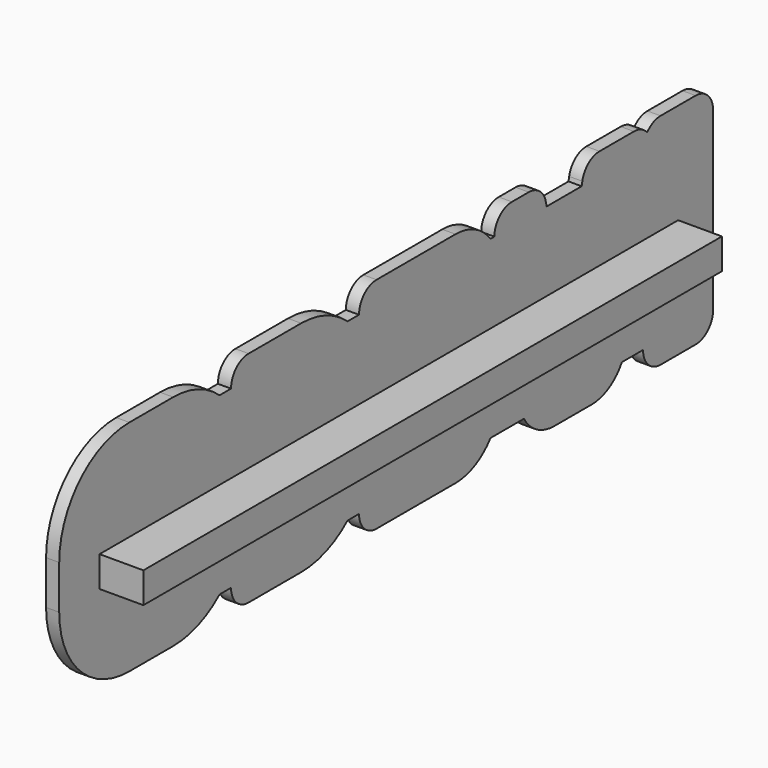
from build123d import *

# Parameters (mm, degrees)
BOX531_W         = 0.2
BOX531_H         = 39
BOX531_DEPTH     = 10
BOX459_W         = 0.8
BOX459_H         = 4
BOX459_DEPTH     = 10
FILLET340_R      = 1
BOX458_W         = 1
BOX458_H         = 3
BOX458_DEPTH     = 9
FILLET339_R      = 0.5
BOX490_W         = 0.8
BOX490_H         = 30
BOX490_DEPTH     = 8
BOX466_W         = 1
BOX466_H         = 5
BOX466_DEPTH     = 2
BOX462_W         = 1
BOX462_H         = 7
BOX462_DEPTH     = 2
BOX464_W         = 1
BOX464_H         = 3
BOX464_DEPTH     = 9
BOX460_W         = 1
BOX460_H         = 7
BOX460_DEPTH     = 2
FILLET_R         = 0.5
FILLET409_R      = 2
FILLET410_R      = 0.75
BOX465_W         = 0.8
BOX465_H         = 4
BOX465_DEPTH     = 10
BOX467_W         = 0.8
BOX467_H         = 6
BOX467_DEPTH     = 3
BOX463_W         = 0.8
BOX463_H         = 8
BOX463_DEPTH     = 3.5
BOX461_W         = 0.8
BOX461_H         = 8
BOX461_DEPTH     = 3.5
FILLET365_R      = 1
FILLET366_R      = 2.5
BOX470_W         = 1
BOX470_H         = 7
BOX470_DEPTH     = 2
BOX471_W         = 1
BOX471_H         = 3
BOX471_DEPTH     = 9
BOX468_W         = 1
BOX468_H         = 7
BOX468_DEPTH     = 2
FILLET406_R      = 0.5
FILLET407_R      = 3.5
FILLET408_R      = 1.5
BOX473_W         = 0.8
BOX473_H         = 8
BOX473_DEPTH     = 3.5
BOX474_W         = 0.8
BOX474_H         = 4
BOX474_DEPTH     = 10
BOX472_W         = 0.8
BOX472_H         = 8
BOX472_DEPTH     = 3.5
FILLET369_R      = 4
FILLET370_R      = 1
FILLET371_R      = 0.3
BOX476_W         = 1
BOX476_H         = 6
BOX476_DEPTH     = 2
BOX477_W         = 1
BOX477_H         = 3
BOX477_DEPTH     = 9
BOX481_W         = 1
BOX481_H         = 3
BOX481_DEPTH     = 9
BOX475_W         = 1
BOX475_H         = 6
BOX475_DEPTH     = 2
FILLET403_R      = 3.5
FILLET404_R      = 1
BOX479_W         = 0.8
BOX479_H         = 7
BOX479_DEPTH     = 3
BOX480_W         = 0.8
BOX480_H         = 4
BOX480_DEPTH     = 10
BOX482_W         = 0.8
BOX482_H         = 4
BOX482_DEPTH     = 10
BOX478_W         = 0.8
BOX478_H         = 7
BOX478_DEPTH     = 3
FILLET405_R      = 4
BOX489_W         = 1
BOX489_H         = 10
BOX489_DEPTH     = 0.01
BOX486_W         = 0.8
BOX486_H         = 6
BOX486_DEPTH     = 10
CHAMFER008_SIZE2 = 2
CHAMFER008_SIZE  = 9.99
CHAMFER009_SIZE2 = 9.99
CHAMFER009_SIZE  = 2
BOX491_W         = 0.8
BOX491_H         = 5
BOX491_DEPTH     = 10
CHAMFER010_SIZE2 = 2
CHAMFER010_SIZE  = 9.99
CHAMFER011_SIZE2 = 9.99
CHAMFER011_SIZE  = 2
FILLET367_R      = 1
FILLET368_R      = 2
BOX488_W         = 1
BOX488_H         = 10
BOX488_DEPTH     = 0.01
BOX485_W         = 1
BOX485_H         = 4
BOX485_DEPTH     = 9
CHAMFER002_SIZE2 = 2
CHAMFER002_SIZE  = 8.99
CHAMFER003_SIZE2 = 8.99
CHAMFER003_SIZE  = 2
BOX483_W         = 1
BOX483_H         = 5
BOX483_DEPTH     = 9
CHAMFER_SIZE2    = 2
CHAMFER_SIZE     = 8.99
CHAMFER001_SIZE2 = 8.99
CHAMFER001_SIZE  = 2
FILLET356_R      = 0.5
FILLET357_R      = 1.25
BOX495_W         = 2
BOX495_H         = 33
BOX495_DEPTH     = 1.4


with BuildPart() as cube756:
    # Box531 → Box531 (new body)
    with BuildSketch(Plane(origin=(-0.2, 64, 10.5), x_dir=(1, 0, 0), z_dir=(0, 0, 1))):
        with Locations((0.1, 19.5)):
            Rectangle(BOX531_W, BOX531_H)
    extrude(amount=BOX531_DEPTH)


with BuildPart() as fillet340:
    # Box459 → Box459 (new body)
    with BuildSketch(Plane(origin=(-0.9, 98.5, 11.5), x_dir=(1, 0, 0), z_dir=(0, 0, 1))):
        with Locations((0.4, 2)):
            Rectangle(BOX459_W, BOX459_H)
    extrude(amount=BOX459_DEPTH)

    # Fillet340
    fillet340_edges = [fillet340.edges().sort_by_distance(p)[0] for p in [
        (-0.5, 98.5, 11.5),
        (-0.5, 98.5, 21.5),
        (-0.5, 102.5, 11.5),
        (-0.5, 102.5, 21.5),
    ]]
    fillet(fillet340_edges, radius=FILLET340_R)


with BuildPart() as fillet340_1:
    # Fillet340 placement: moved
    add(fillet340.part.moved(Location((0.1, 0, 0))))


with BuildPart() as fusion261:
    # Box458 → Box458 (new body)
    with BuildSketch(Plane(origin=(-1, 99, 12), x_dir=(1, 0, 0), z_dir=(0, 0, 1))):
        with Locations((0.5, 1.5)):
            Rectangle(BOX458_W, BOX458_H)
    extrude(amount=BOX458_DEPTH)

    # Fillet339
    fillet339_edges = [fusion261.edges().sort_by_distance(p)[0] for p in [
        (-0.5, 99, 12),
        (-0.5, 99, 21),
        (-0.5, 102, 12),
        (-0.5, 102, 21),
    ]]
    fillet(fillet339_edges, radius=FILLET339_R)

    # Fusion261: union Fillet340
    add(fillet340_1.part)


with BuildPart() as fusion261_1:
    # Fusion261 placement: moved
    add(fusion261.part.moved(Location((0, -1, 0))))


with BuildPart() as cube715:
    # Box490 → Box490 (new body)
    with BuildSketch(Plane(origin=(-0.8, 68, 12.5), x_dir=(1, 0, 0), z_dir=(0, 0, 1))):
        with Locations((0.4, 15)):
            Rectangle(BOX490_W, BOX490_H)
    extrude(amount=BOX490_DEPTH)


with BuildPart() as cube691:
    # Box466 → Box466 (new body)
    with BuildSketch(Plane(origin=(-1, 82.5, 15.5), x_dir=(1, 0, 0), z_dir=(0, 0, 1))):
        with Locations((0.5, 2.5)):
            Rectangle(BOX466_W, BOX466_H)
    extrude(amount=BOX466_DEPTH)


with BuildPart() as cube687:
    # Box462 → Box462 (new body)
    with BuildSketch(Plane(origin=(-1, 81.5, 19), x_dir=(1, 0, 0), z_dir=(0, 0, 1))):
        with Locations((0.5, 3.5)):
            Rectangle(BOX462_W, BOX462_H)
    extrude(amount=BOX462_DEPTH)


with BuildPart() as cube689:
    # Box464 → Box464 (new body)
    with BuildSketch(Plane(origin=(-1, 85.5, 12), x_dir=(1, 0, 0), z_dir=(0, 0, 1))):
        with Locations((0.5, 1.5)):
            Rectangle(BOX464_W, BOX464_H)
    extrude(amount=BOX464_DEPTH)


with BuildPart() as fillet410:
    # Box460 → Box460 (new body)
    with BuildSketch(Plane(origin=(-1, 81.5, 12), x_dir=(1, 0, 0), z_dir=(0, 0, 1))):
        with Locations((0.5, 3.5)):
            Rectangle(BOX460_W, BOX460_H)
    extrude(amount=BOX460_DEPTH)

    # Fusion257: union Cube691, Cube687, Cube689
    add(cube691.part)
    add(cube687.part)
    add(cube689.part)

    # Fillet
    fillet_edges = [fillet410.edges().sort_by_distance(p)[0] for p in [
        (-0.5, 82.5, 15.5),
        (-0.5, 82.5, 17.5),
        (-0.5, 81.5, 14),
        (-0.5, 81.5, 19),
        (-0.5, 81.5, 12),
        (-0.5, 81.5, 21),
    ]]
    fillet(fillet_edges, radius=FILLET_R)

    # Fillet409
    fillet409_edges = [fillet410.edges().sort_by_distance(p)[0] for p in [
        (-0.5, 88.5, 21),
        (-0.5, 88.5, 12),
    ]]
    fillet(fillet409_edges, radius=FILLET409_R)

    # Fillet410
    fillet410_edges = [fillet410.edges().sort_by_distance(p)[0] for p in [
        (-0.5, 85.5, 19),
        (-0.5, 85.5, 14),
    ]]
    fillet(fillet410_edges, radius=FILLET410_R)


with BuildPart() as cube690:
    # Box465 → Box465 (new body)
    with BuildSketch(Plane(origin=(-0.9, 85, 11.5), x_dir=(1, 0, 0), z_dir=(0, 0, 1))):
        with Locations((0.4, 2)):
            Rectangle(BOX465_W, BOX465_H)
    extrude(amount=BOX465_DEPTH)


with BuildPart() as cube692:
    # Box467 → Box467 (new body)
    with BuildSketch(Plane(origin=(-0.9, 82.5, 15), x_dir=(1, 0, 0), z_dir=(0, 0, 1))):
        with Locations((0.4, 3)):
            Rectangle(BOX467_W, BOX467_H)
    extrude(amount=BOX467_DEPTH)


with BuildPart() as cube688:
    # Box463 → Box463 (new body)
    with BuildSketch(Plane(origin=(-0.9, 81, 18), x_dir=(1, 0, 0), z_dir=(0, 0, 1))):
        with Locations((0.4, 4)):
            Rectangle(BOX463_W, BOX463_H)
    extrude(amount=BOX463_DEPTH)


with BuildPart() as e:
    # Box461 → Box461 (new body)
    with BuildSketch(Plane(origin=(-0.9, 81, 11.5), x_dir=(1, 0, 0), z_dir=(0, 0, 1))):
        with Locations((0.4, 4)):
            Rectangle(BOX461_W, BOX461_H)
    extrude(amount=BOX461_DEPTH)

    # Fusion: union Cube690, Cube692, Cube688
    add(cube690.part)
    add(cube692.part)
    add(cube688.part)

    # Fillet365
    fillet365_edges = [e.edges().sort_by_distance(p)[0] for p in [
        (-0.5, 81, 21.5),
        (-0.5, 81, 11.5),
    ]]
    fillet(fillet365_edges, radius=FILLET365_R)

    # Fillet366
    fillet366_edges = [e.edges().sort_by_distance(p)[0] for p in [
        (-0.5, 89, 21.5),
        (-0.5, 89, 11.5),
    ]]
    fillet(fillet366_edges, radius=FILLET366_R)


with BuildPart() as e_1:
    # Fillet366 placement: moved
    add(e.part.moved(Location((0.1, 0, 0))))

    # Fusion297: union Fillet410
    add(fillet410.part)


with BuildPart() as e_2:
    # Fusion297 placement: moved
    add(e_1.part.moved(Location((0, 0.3, 0))))


with BuildPart() as cube695:
    # Box470 → Box470 (new body)
    with BuildSketch(Plane(origin=(-1, 74.5, 19), x_dir=(1, 0, 0), z_dir=(0, 0, 1))):
        with Locations((0.5, 3.5)):
            Rectangle(BOX470_W, BOX470_H)
    extrude(amount=BOX470_DEPTH)


with BuildPart() as cube696:
    # Box471 → Box471 (new body)
    with BuildSketch(Plane(origin=(-1, 78.5, 12), x_dir=(1, 0, 0), z_dir=(0, 0, 1))):
        with Locations((0.5, 1.5)):
            Rectangle(BOX471_W, BOX471_H)
    extrude(amount=BOX471_DEPTH)


with BuildPart() as fillet408:
    # Box468 → Box468 (new body)
    with BuildSketch(Plane(origin=(-1, 74.5, 12), x_dir=(1, 0, 0), z_dir=(0, 0, 1))):
        with Locations((0.5, 3.5)):
            Rectangle(BOX468_W, BOX468_H)
    extrude(amount=BOX468_DEPTH)

    # Fusion258: union Cube695, Cube696
    add(cube695.part)
    add(cube696.part)

    # Fillet406
    fillet406_edges = [fillet408.edges().sort_by_distance(p)[0] for p in [
        (-0.5, 74.5, 19),
        (-0.5, 74.5, 21),
        (-0.5, 74.5, 14),
        (-0.5, 74.5, 12),
    ]]
    fillet(fillet406_edges, radius=FILLET406_R)

    # Fillet407
    fillet407_edges = [fillet408.edges().sort_by_distance(p)[0] for p in [
        (-0.5, 81.5, 21),
        (-0.5, 81.5, 12),
    ]]
    fillet(fillet407_edges, radius=FILLET407_R)

    # Fillet408
    fillet408_edges = [fillet408.edges().sort_by_distance(p)[0] for p in [
        (-0.5, 78.5, 19),
        (-0.5, 78.5, 14),
    ]]
    fillet(fillet408_edges, radius=FILLET408_R)


with BuildPart() as cube698:
    # Box473 → Box473 (new body)
    with BuildSketch(Plane(origin=(-0.9, 74, 18), x_dir=(1, 0, 0), z_dir=(0, 0, 1))):
        with Locations((0.4, 4)):
            Rectangle(BOX473_W, BOX473_H)
    extrude(amount=BOX473_DEPTH)


with BuildPart() as cube699:
    # Box474 → Box474 (new body)
    with BuildSketch(Plane(origin=(-0.9, 78, 11.5), x_dir=(1, 0, 0), z_dir=(0, 0, 1))):
        with Locations((0.4, 2)):
            Rectangle(BOX474_W, BOX474_H)
    extrude(amount=BOX474_DEPTH)


with BuildPart() as c:
    # Box472 → Box472 (new body)
    with BuildSketch(Plane(origin=(-0.9, 74, 11.5), x_dir=(1, 0, 0), z_dir=(0, 0, 1))):
        with Locations((0.4, 4)):
            Rectangle(BOX472_W, BOX472_H)
    extrude(amount=BOX472_DEPTH)

    # Fusion259: union Cube698, Cube699
    add(cube698.part)
    add(cube699.part)


with BuildPart() as c_1:
    # Fusion259 placement: moved
    add(c.part.moved(Location((0.1, 0, 0))))

    # Fillet369
    fillet369_edges = [c_1.edges().sort_by_distance(p)[0] for p in [
        (-0.4, 82, 21.5),
        (-0.4, 82, 11.5),
    ]]
    fillet(fillet369_edges, radius=FILLET369_R)

    # Fillet370
    fillet370_edges = [c_1.edges().sort_by_distance(p)[0] for p in [
        (-0.4, 74, 11.5),
        (-0.4, 74, 15),
        (-0.4, 74, 21.5),
        (-0.4, 74, 18),
    ]]
    fillet(fillet370_edges, radius=FILLET370_R)

    # Fillet371
    fillet371_edges = [c_1.edges().sort_by_distance(p)[0] for p in [
        (-0.4, 78, 15),
        (-0.4, 78, 18),
    ]]
    fillet(fillet371_edges, radius=FILLET371_R)

    # Fusion295: union Fillet408
    add(fillet408.part)


with BuildPart() as cube701:
    # Box476 → Box476 (new body)
    with BuildSketch(Plane(origin=(-1, 67.5, 19), x_dir=(1, 0, 0), z_dir=(0, 0, 1))):
        with Locations((0.5, 3)):
            Rectangle(BOX476_W, BOX476_H)
    extrude(amount=BOX476_DEPTH)


with BuildPart() as cube702:
    # Box477 → Box477 (new body)
    with BuildSketch(Plane(origin=(-1, 71.5, 12), x_dir=(1, 0, 0), z_dir=(0, 0, 1))):
        with Locations((0.5, 1.5)):
            Rectangle(BOX477_W, BOX477_H)
    extrude(amount=BOX477_DEPTH)


with BuildPart() as cube706:
    # Box481 → Box481 (new body)
    with BuildSketch(Plane(origin=(-1, 65, 12), x_dir=(1, 0, 0), z_dir=(0, 0, 1))):
        with Locations((0.5, 1.5)):
            Rectangle(BOX481_W, BOX481_H)
    extrude(amount=BOX481_DEPTH)


with BuildPart() as fillet404:
    # Box475 → Box475 (new body)
    with BuildSketch(Plane(origin=(-1, 67.5, 12), x_dir=(1, 0, 0), z_dir=(0, 0, 1))):
        with Locations((0.5, 3)):
            Rectangle(BOX475_W, BOX475_H)
    extrude(amount=BOX475_DEPTH)

    # Fusion263: union Cube701, Cube702, Cube706
    add(cube701.part)
    add(cube702.part)
    add(cube706.part)

    # Fillet403
    fillet403_edges = [fillet404.edges().sort_by_distance(p)[0] for p in [
        (-0.5, 74.5, 12),
        (-0.5, 74.5, 21),
        (-0.5, 65, 12),
        (-0.5, 65, 21),
    ]]
    fillet(fillet403_edges, radius=FILLET403_R)

    # Fillet404
    fillet404_edges = [fillet404.edges().sort_by_distance(p)[0] for p in [
        (-0.5, 68, 19),
        (-0.5, 68, 14),
        (-0.5, 71.5, 19),
        (-0.5, 71.5, 14),
    ]]
    fillet(fillet404_edges, radius=FILLET404_R)


with BuildPart() as cube704:
    # Box479 → Box479 (new body)
    with BuildSketch(Plane(origin=(-0.9, 67, 18), x_dir=(1, 0, 0), z_dir=(0, 0, 1))):
        with Locations((0.4, 3.5)):
            Rectangle(BOX479_W, BOX479_H)
    extrude(amount=BOX479_DEPTH)


with BuildPart() as cube705:
    # Box480 → Box480 (new body)
    with BuildSketch(Plane(origin=(-0.9, 71, 11), x_dir=(1, 0, 0), z_dir=(0, 0, 1))):
        with Locations((0.4, 2)):
            Rectangle(BOX480_W, BOX480_H)
    extrude(amount=BOX480_DEPTH)


with BuildPart() as cube707:
    # Box482 → Box482 (new body)
    with BuildSketch(Plane(origin=(-0.9, 64.5, 11), x_dir=(1, 0, 0), z_dir=(0, 0, 1))):
        with Locations((0.4, 2)):
            Rectangle(BOX482_W, BOX482_H)
    extrude(amount=BOX482_DEPTH)


with BuildPart() as o:
    # Box478 → Box478 (new body)
    with BuildSketch(Plane(origin=(-0.9, 67, 11), x_dir=(1, 0, 0), z_dir=(0, 0, 1))):
        with Locations((0.4, 3.5)):
            Rectangle(BOX478_W, BOX478_H)
    extrude(amount=BOX478_DEPTH)

    # Fusion264: union Cube704, Cube705, Cube707
    add(cube704.part)
    add(cube705.part)
    add(cube707.part)


with BuildPart() as o_1:
    # Fusion264 placement: moved
    add(o.part.moved(Location((0, 0.5, 0))))

    # Fillet405
    fillet405_edges = [o_1.edges().sort_by_distance(p)[0] for p in [
        (-0.5, 75.5, 11),
        (-0.5, 75.5, 21),
        (-0.5, 65, 11),
        (-0.5, 65, 21),
    ]]
    fillet(fillet405_edges, radius=FILLET405_R)


with BuildPart() as o_2:
    # Fillet405 placement: moved
    add(o_1.part.moved(Location((0.1, -0.5, 0.5))))

    # Fusion296: union Fillet404
    add(fillet404.part)


with BuildPart() as o_3:
    # Fusion296 placement: moved
    add(o_2.part.moved(Location((0, -0.3, 0))))


with BuildPart() as cube714:
    # Box489 → Box489 (new body)
    with BuildSketch(Plane(origin=(-1, 89, 21.49), x_dir=(1, 0, 0), z_dir=(0, 0, 1))):
        with Locations((0.5, 5)):
            Rectangle(BOX489_W, BOX489_H)
    extrude(amount=BOX489_DEPTH)


with BuildPart() as chamfer009:
    # Box486 → Box486 (new body)
    with BuildSketch(Plane(origin=(-1, 93, 12), x_dir=(1, 0, 0), z_dir=(0, 0, 1))):
        with Locations((0.4, 3)):
            Rectangle(BOX486_W, BOX486_H)
    extrude(amount=BOX486_DEPTH)

    # Chamfer008
    chamfer008_edges = [chamfer009.edges().sort_by_distance(p)[0] for p in [
        (-0.6, 93, 22),
    ]]
    chamfer008_side = chamfer009.faces().sort_by_distance((-0.6, 93, 17))[0]
    chamfer(chamfer008_edges, length=CHAMFER008_SIZE, length2=CHAMFER008_SIZE2, reference=chamfer008_side)

    # Chamfer009
    chamfer009_edges = [chamfer009.edges().sort_by_distance(p)[0] for p in [
        (-0.6, 99, 12),
    ]]
    chamfer009_side = chamfer009.faces().sort_by_distance((-0.6, 96, 12))[0]
    chamfer(chamfer009_edges, length=CHAMFER009_SIZE, length2=CHAMFER009_SIZE2, reference=chamfer009_side)


with BuildPart() as chamfer009_1:
    # Chamfer009 placement: moved
    add(chamfer009.part.moved(Location((0, -0.3, -0.5))))


with BuildPart() as chamfer011:
    # Box491 → Box491 (new body)
    with BuildSketch(Plane(origin=(-1, 93, 12), x_dir=(1, 0, 0), z_dir=(0, 0, 1))):
        with Locations((0.4, 2.5)):
            Rectangle(BOX491_W, BOX491_H)
    extrude(amount=BOX491_DEPTH)

    # Chamfer010
    chamfer010_edges = [chamfer011.edges().sort_by_distance(p)[0] for p in [
        (-0.6, 93, 22),
    ]]
    chamfer010_side = chamfer011.faces().sort_by_distance((-0.6, 93, 17))[0]
    chamfer(chamfer010_edges, length=CHAMFER010_SIZE, length2=CHAMFER010_SIZE2, reference=chamfer010_side)

    # Chamfer011
    chamfer011_edges = [chamfer011.edges().sort_by_distance(p)[0] for p in [
        (-0.6, 98, 12),
    ]]
    chamfer011_side = chamfer011.faces().sort_by_distance((-0.6, 95.5, 12))[0]
    chamfer(chamfer011_edges, length=CHAMFER011_SIZE, length2=CHAMFER011_SIZE2, reference=chamfer011_side)


with BuildPart() as fillet368:
    # Part__Mirroring001: instance of Chamfer011
    add(chamfer011.part.mirror(Plane(origin=(0, 0, 0), x_dir=(1, 0, 0), z_dir=(0, 1, 0))))


with BuildPart() as fillet368_1:
    # Part__Mirroring001 placement: moved
    add(fillet368.part.moved(Location((0, 187.3, -0.5))))

    # Fusion272: union Chamfer009
    add(chamfer009_1.part)

    # Cut001: cut Cube714
    add(cube714.part, mode=Mode.SUBTRACT)


with BuildPart() as fillet368_2:
    # Cut001 placement: moved
    add(fillet368_1.part.moved(Location((0.1, 0, 0))))

    # Fillet367
    fillet367_edges = [fillet368_2.edges().sort_by_distance(p)[0] for p in [
        (-0.5, 94.697998, 21.49),
        (-0.5, 98.7, 21.49),
        (-0.5, 89.3, 21.49),
        (-0.5, 92.302002, 21.49),
    ]]
    fillet(fillet367_edges, radius=FILLET367_R)

    # Fillet368
    fillet368_edges = [fillet368_2.edges().sort_by_distance(p)[0] for p in [
        (-0.5, 96.7, 11.5),
        (-0.5, 91.3, 11.5),
    ]]
    fillet(fillet368_edges, radius=FILLET368_R)


with BuildPart() as fillet368_3:
    # Fillet368 placement: moved
    add(fillet368_2.part.moved(Location((0.1, 0, 0))))


with BuildPart() as cube713:
    # Box488 → Box488 (new body)
    with BuildSketch(Plane(origin=(-1, 89, 20.99), x_dir=(1, 0, 0), z_dir=(0, 0, 1))):
        with Locations((0.5, 5)):
            Rectangle(BOX488_W, BOX488_H)
    extrude(amount=BOX488_DEPTH)


with BuildPart() as chamfer003:
    # Box485 → Box485 (new body)
    with BuildSketch(Plane(origin=(-1, 93, 12), x_dir=(1, 0, 0), z_dir=(0, 0, 1))):
        with Locations((0.5, 2)):
            Rectangle(BOX485_W, BOX485_H)
    extrude(amount=BOX485_DEPTH)

    # Chamfer002
    chamfer002_edges = [chamfer003.edges().sort_by_distance(p)[0] for p in [
        (-0.5, 93, 21),
    ]]
    chamfer002_side = chamfer003.faces().sort_by_distance((-0.5, 93, 16.5))[0]
    chamfer(chamfer002_edges, length=CHAMFER002_SIZE, length2=CHAMFER002_SIZE2, reference=chamfer002_side)

    # Chamfer003
    chamfer003_edges = [chamfer003.edges().sort_by_distance(p)[0] for p in [
        (-0.5, 97, 12),
    ]]
    chamfer003_side = chamfer003.faces().sort_by_distance((-0.5, 95, 12))[0]
    chamfer(chamfer003_edges, length=CHAMFER003_SIZE, length2=CHAMFER003_SIZE2, reference=chamfer003_side)


with BuildPart() as part_mirroring:
    # Part__Mirroring: instance of Chamfer003
    add(chamfer003.part.mirror(Plane(origin=(0, 0, 0), x_dir=(1, 0, 0), z_dir=(0, 1, 0))))


with BuildPart() as part_mirroring_1:
    # Part__Mirroring placement: moved
    add(part_mirroring.part.moved(Location((0, 187, 0))))


with BuildPart() as cut005:
    # Box483 → Box483 (new body)
    with BuildSketch(Plane(origin=(-1, 93, 12), x_dir=(1, 0, 0), z_dir=(0, 0, 1))):
        with Locations((0.5, 2.5)):
            Rectangle(BOX483_W, BOX483_H)
    extrude(amount=BOX483_DEPTH)

    # Chamfer
    chamfer_edges = [cut005.edges().sort_by_distance(p)[0] for p in [
        (-0.5, 93, 21),
    ]]
    chamfer_side = cut005.faces().sort_by_distance((-0.5, 93, 16.5))[0]
    chamfer(chamfer_edges, length=CHAMFER_SIZE, length2=CHAMFER_SIZE2, reference=chamfer_side)

    # Chamfer001
    chamfer001_edges = [cut005.edges().sort_by_distance(p)[0] for p in [
        (-0.5, 98, 12),
    ]]
    chamfer001_side = cut005.faces().sort_by_distance((-0.5, 95.5, 12))[0]
    chamfer(chamfer001_edges, length=CHAMFER001_SIZE, length2=CHAMFER001_SIZE2, reference=chamfer001_side)

    # Fusion266: union Part__Mirroring
    add(part_mirroring_1.part)

    # Cut: cut Cube713
    add(cube713.part, mode=Mode.SUBTRACT)

    # Fillet356
    fillet356_edges = [cut005.edges().sort_by_distance(p)[0] for p in [
        (-0.5, 94.997775, 20.99),
        (-0.5, 98, 20.99),
        (-0.5, 90, 20.99),
        (-0.5, 92.002225, 20.99),
    ]]
    fillet(fillet356_edges, radius=FILLET356_R)

    # Fillet357
    fillet357_edges = [cut005.edges().sort_by_distance(p)[0] for p in [
        (-0.5, 96, 12),
        (-0.5, 92, 12),
    ]]
    fillet(fillet357_edges, radius=FILLET357_R)

    # Fusion273: union Fillet368
    add(fillet368_3.part)


with BuildPart() as cut005_1:
    # Fusion273 placement: moved
    add(cut005.part.moved(Location((0, -0.5, 0))))

    # Fusion298: union Fusion261, Cube715, E, C, O
    add(fusion261_1.part)
    add(cube715.part)
    add(e_2.part)
    add(c_1.part)
    add(o_3.part)


with BuildPart() as cut005_2:
    # Fusion298 placement: moved
    add(cut005_1.part.moved(Location((0, 0.5, -1))))

    # Cut005: cut Cube756
    add(cube756.part, mode=Mode.SUBTRACT)


with BuildPart() as cut005_3:
    # Cut005 placement: moved
    add(cut005_2.part.moved(Location((0.2, 0, 0))))


with BuildPart() as fusion299:
    # Box495 → Box495 (new body)
    with BuildSketch(Plane(origin=(0, 67, 14.5), x_dir=(1, 0, 0), z_dir=(0, 0, 1))):
        with Locations((1, 16.5)):
            Rectangle(BOX495_W, BOX495_H)
    extrude(amount=BOX495_DEPTH)

    # Fusion299: union Cut005
    add(cut005_3.part)


solid = fusion299.part
